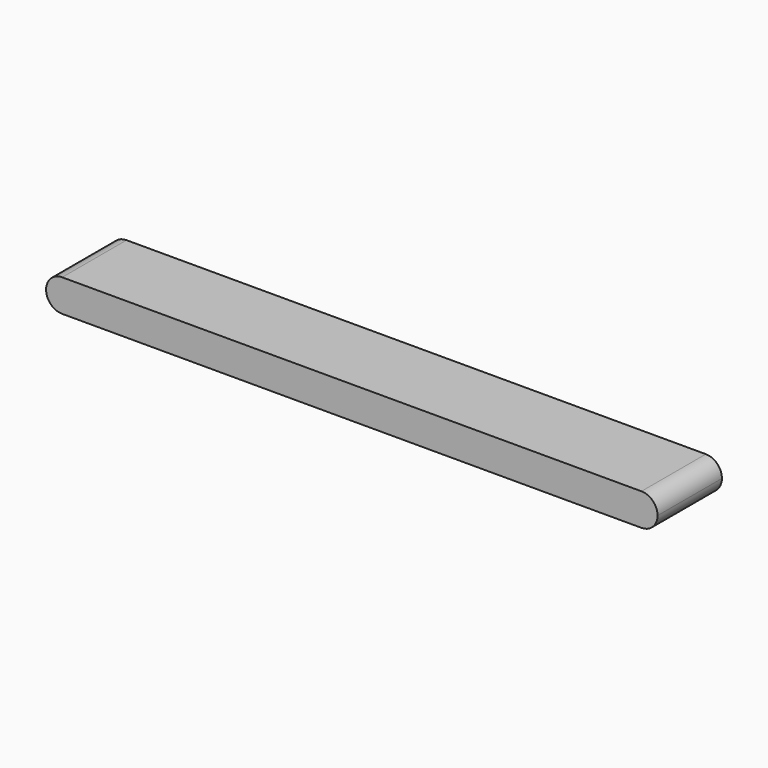
from build123d import *

# Parameters (mm, degrees)
F1_DEPTH = 254


with BuildPart() as f1:
    # F0 (on Front) → F1 (new body)
    with BuildSketch(Plane.XZ):
        with BuildLine():
            ThreePointArc((-914.4, 50.8), (-965.2, 0), (-914.4, -50.8))
            ThreePointArc((-914.4, -50.8), (-878.478976, -35.921024), (-863.6, 0))
            ThreePointArc((-863.6, 0), (-878.478976, 35.921024), (-914.4, 50.8))
        make_face()
        with BuildLine():
            ThreePointArc((914.4, 50.8), (863.6, 0), (914.4, -50.8))
            ThreePointArc((914.4, -50.8), (950.321024, -35.921024), (965.2, 0))
            ThreePointArc((965.2, 0), (950.321024, 35.921024), (914.4, 50.8))
        make_face()
        with BuildLine():
            ThreePointArc((-863.6, 0), (-878.478976, -35.921024), (-914.4, -50.8))
            Line((-914.4, -50.8), (914.4, -50.8))
            ThreePointArc((914.4, -50.8), (863.6, 0), (914.4, 50.8))
            Line((914.4, 50.8), (-914.4, 50.8))
            ThreePointArc((-914.4, 50.8), (-878.478976, 35.921024), (-863.6, 0))
        make_face()
    extrude(amount=F1_DEPTH)


solid = f1.part
